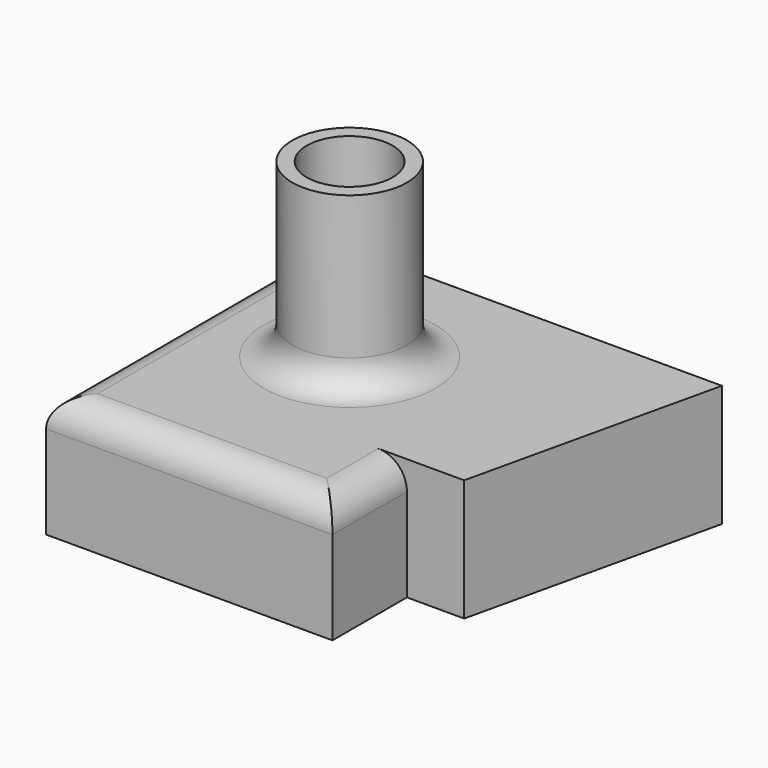
from build123d import *

# Parameters (mm, degrees)
F1_DEPTH = 53.975
F3_R     = 25.4
F4_DEPTH = 76.2
F5_R     = 19.05
F6_DEPTH = 63.5
F7_R     = 12.7


with BuildPart() as f1:
    # F0 (on Top) → F1 (new body)
    with BuildSketch(Plane.XY):
        Polygon((-76.22182, -30.145772), (50.77818, -30.145772), (50.77818, 11.129228), (76.17818, 11.129228), (101.57818, 122.254228), (-76.22182, 122.254228), align=None)
    extrude(amount=F1_DEPTH)

    # F3 (on face) → F4 (join)
    with BuildSketch(Plane.XY.offset(53.975)):
        with Locations((-12.72182, 58.754228)):
            Circle(F3_R)
    extrude(amount=F4_DEPTH)

    # F5 (on face) → F6 (cut)
    with BuildSketch(Plane.XY.offset(130.175)):
        with Locations((-12.72182, 58.754228)):
            Circle(F5_R)
    extrude(amount=-F6_DEPTH, mode=Mode.SUBTRACT)

    # F7
    f7_edges = [f1.edges().sort_by_distance(p)[0] for p in [
        (-12.72182, -30.145772, 53.975),
        (50.77818, -9.508272, 53.975),
        (-76.22182, 46.054228, 53.975),
        (-38.12182, 58.754228, 53.975),
    ]]
    fillet(f7_edges, radius=F7_R)


solid = f1.part
